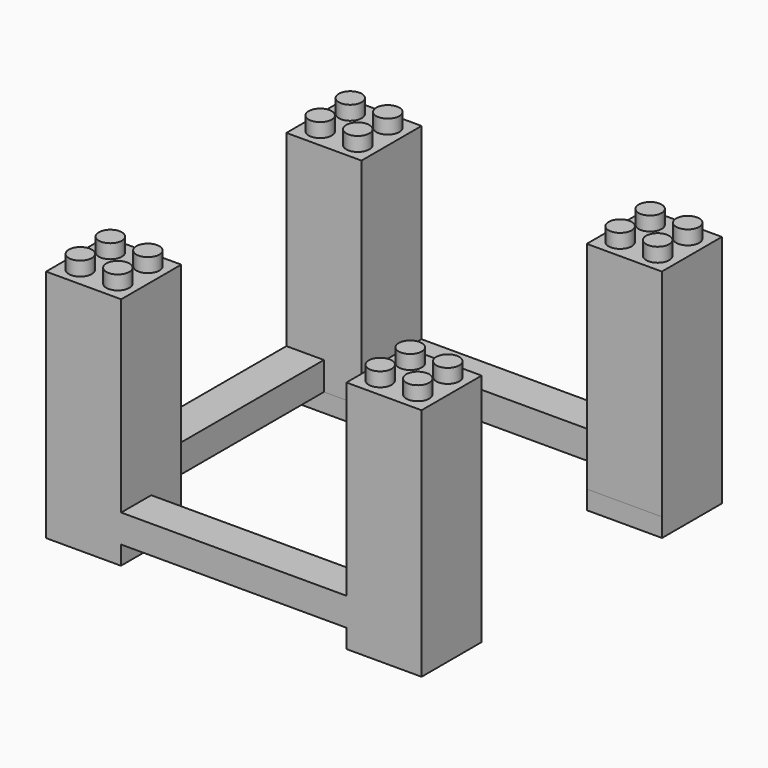
from build123d import *

# Parameters (mm, degrees)
SKETCH_W        = 80
SKETCH_H        = 80
PAD_DEPTH       = 50
SKETCH007_W     = 13.4
SKETCH007_H     = 13.4
SKETCH007_R     = 3.25
POCKET_DEPTH    = 5
SKETCH004_R     = 2.45
PAD001_DEPTH    = 3
POCKET001_DEPTH = 40
POCKET002_DEPTH = 10.001
SKETCH002_W     = 48.1
SKETCH002_H     = 4
POCKET003_DEPTH = 80.001
SKETCH003_W     = 48.1
SKETCH003_H     = 4
POCKET004_DEPTH = 80.001


with BuildPart() as part:
    # Sketch → Pad (new body)
    with BuildSketch(Plane.XY):
        Rectangle(SKETCH_W, SKETCH_H)
    extrude(amount=PAD_DEPTH)

    # Sketch007 → Pocket (cut)
    with BuildSketch(Plane(origin=(0, 0, 0), x_dir=(1, 0, 0), z_dir=(0, 0, -1))):
        with Locations((-31.95, 31.95)):
            Rectangle(SKETCH007_W, SKETCH007_H)
        with Locations((-31.95, 31.95)):
            Circle(SKETCH007_R, mode=Mode.SUBTRACT)
        with Locations((31.95, 31.95)):
            Rectangle(SKETCH007_W, SKETCH007_H)
        with Locations((31.95, 31.95)):
            Circle(SKETCH007_R, mode=Mode.SUBTRACT)
        with Locations((-31.95, -31.95)):
            Rectangle(SKETCH007_W, SKETCH007_H)
        with Locations((-31.95, -31.95)):
            Circle(SKETCH007_R, mode=Mode.SUBTRACT)
        with Locations((31.95, -31.95)):
            Rectangle(SKETCH007_W, SKETCH007_H)
        with Locations((31.95, -31.95)):
            Circle(SKETCH007_R, mode=Mode.SUBTRACT)
    extrude(amount=-POCKET_DEPTH, mode=Mode.SUBTRACT)

    # Sketch004 → Pad001 (new body)
    with BuildSketch(Plane.XY.offset(50)):
        with Locations((-35.95, -35.95)):
            Circle(SKETCH004_R)
        with Locations((35.95, 35.95)):
            Circle(SKETCH004_R)
        with Locations((35.95, -35.95)):
            Circle(SKETCH004_R)
        with Locations((-35.95, 35.95)):
            Circle(SKETCH004_R)
        with Locations((-27.95, 35.95)):
            Circle(SKETCH004_R)
        with Locations((-27.95, 27.95)):
            Circle(SKETCH004_R)
        with Locations((27.95, 27.95)):
            Circle(SKETCH004_R)
        with Locations((27.95, 35.95)):
            Circle(SKETCH004_R)
        with Locations((-35.95, 27.95)):
            Circle(SKETCH004_R)
        with Locations((35.95, 27.95)):
            Circle(SKETCH004_R)
        with Locations((27.95, -27.95)):
            Circle(SKETCH004_R)
        with Locations((27.95, -35.95)):
            Circle(SKETCH004_R)
        with Locations((35.95, -27.95)):
            Circle(SKETCH004_R)
        with Locations((-27.95, -27.95)):
            Circle(SKETCH004_R)
        with Locations((-27.95, -35.95)):
            Circle(SKETCH004_R)
        with Locations((-35.95, -27.95)):
            Circle(SKETCH004_R)
    extrude(amount=PAD001_DEPTH)

    # Sketch008 → Pocket001 (cut)
    with BuildSketch(Plane.XY.offset(50)):
        Polygon((-24, 40), (-24, 24), (-40, 24), (-40, -24), (-24, -24), (-24, -40), (24, -40), (24, -24), (40, -24), (40, 24), (24, 24), (24, 40), align=None)
    extrude(amount=-POCKET001_DEPTH, mode=Mode.SUBTRACT)

    # Sketch005 → Pocket002 (cut, through all)
    with BuildSketch(Plane.XY.offset(10)):
        Polygon((24, 24), (24, 32), (-24, 32), (-24, 24), (-32, 24), (-32, -24), (-24, -24), (-24, -32), (24, -32), (24, -24), (40, -24), (40, 24), align=None)
    extrude(amount=-POCKET002_DEPTH, mode=Mode.SUBTRACT)

    # Sketch002 → Pocket003 (cut, through all)
    with BuildSketch(Plane.XZ.offset(40)):
        with Locations((0, 2)):
            Rectangle(SKETCH002_W, SKETCH002_H)
    extrude(amount=-POCKET003_DEPTH, mode=Mode.SUBTRACT)

    # Sketch003 → Pocket004 (cut, through all)
    with BuildSketch(Plane(origin=(-40, 0, 0), x_dir=(0, -1, 0), z_dir=(-1, 0, 0))):
        with Locations((0, 2)):
            Rectangle(SKETCH003_W, SKETCH003_H)
    extrude(amount=-POCKET004_DEPTH, mode=Mode.SUBTRACT)


solid = part.part
